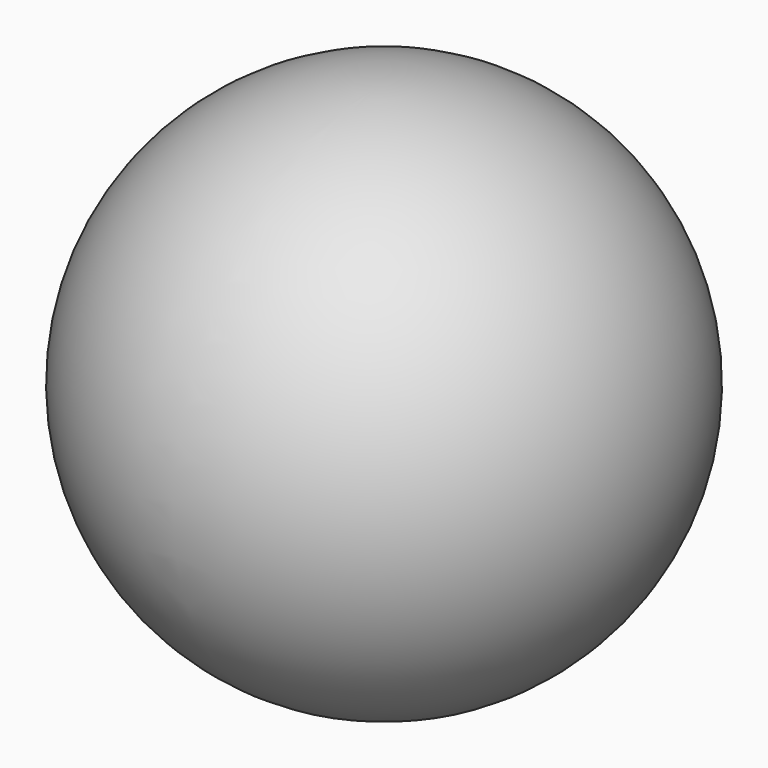
from build123d import *

# Parameters (mm, degrees)
F2_R      = 6.5
F3_DEPTH  = 30
F4_W      = 107.489927
F4_H      = 49.906041
F5_DEPTH  = 15
F3_FACE_R = 6.5
F6_DEPTH  = 15
F7_SIZE   = 5


with BuildPart() as f1:
    # F0 (on Right) → F1 (revolve)
    with BuildSketch(Plane.YZ):
        with BuildLine():
            Line((0, -25.4), (0, 25.4))
            ThreePointArc((0, 25.4), (-25.4, 0), (0, -25.4))
        make_face()
    revolve(axis=Axis((0, 0, 0), (0, 0, -1)))

    # F2 (on Top) → F3 (cut)
    with BuildSketch(Plane.XY):
        Circle(F2_R)
    extrude(amount=-F3_DEPTH, mode=Mode.SUBTRACT)

    # F4 (on Front) → F5 (cut, symmetric)
    with BuildSketch(Plane.XZ):
        with Locations((11.955445, -46.953021)):
            Rectangle(F4_W, F4_H)
    extrude(amount=F5_DEPTH, both=True, mode=Mode.SUBTRACT)

    # F3_face (on face) → F6 (cut)
    with BuildSketch(Plane(origin=(0, 0, 0), x_dir=(1, 0, 0), z_dir=(0, 0, -1))):
        Circle(F3_FACE_R)
    extrude(amount=-F6_DEPTH, mode=Mode.SUBTRACT)

    # F7
    f7_edges = [f1.edges().sort_by_distance(p)[0] for p in [
        (-6.5, 0, 15),
    ]]
    chamfer(f7_edges, length=F7_SIZE)


solid = f1.part
